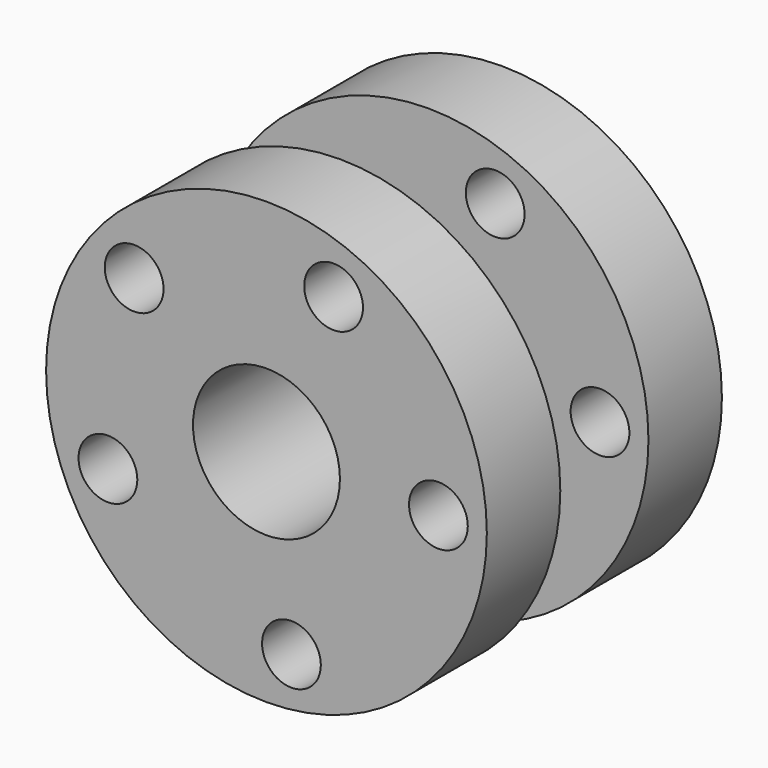
from build123d import *

# Parameters (mm, degrees)
F0_R     = 60
F1_DEPTH = 25
F2_R     = 25
F3_DEPTH = 30
F4_R     = 60
F5_DEPTH = 25
F6_R     = 20
F7_DEPTH = 80.001
F8_R     = 8
F9_DEPTH = 80.001


with BuildPart() as f1:
    # F0 (on Front) → F1 (new body)
    with BuildSketch(Plane.XZ):
        Circle(F0_R)
    extrude(amount=F1_DEPTH)

    # F2 (on face) → F3 (join)
    with BuildSketch(Plane(origin=(0, 0, 0), x_dir=(-1, 0, 0), z_dir=(0, 1, 0))):
        Circle(F2_R)
    extrude(amount=F3_DEPTH)

    # F4 (on face) → F5 (join)
    with BuildSketch(Plane(origin=(0, 30, 0), x_dir=(-1, 0, 0), z_dir=(0, 1, 0))):
        Circle(F4_R)
    extrude(amount=F5_DEPTH)

    # F6 (on face) → F7 (cut, through all)
    with BuildSketch(Plane.XZ.offset(25)):
        Circle(F6_R)
    extrude(amount=-F7_DEPTH, mode=Mode.SUBTRACT)

    # F8 (on face) → F9 (cut, through all)
    with BuildSketch(Plane.XZ.offset(25)):
        with Locations((-36.019197, 29.902987)):
            Circle(F8_R)
        with Locations((18.275928, 43.099439)):
            Circle(F8_R)
        with Locations((-43.162904, -18.125534)):
            Circle(F8_R)
        with Locations((46.81422, 0)):
            Circle(F8_R)
        with Locations((6.80161, -46.317484)):
            Circle(F8_R)
    extrude(amount=-F9_DEPTH, mode=Mode.SUBTRACT)


solid = f1.part
